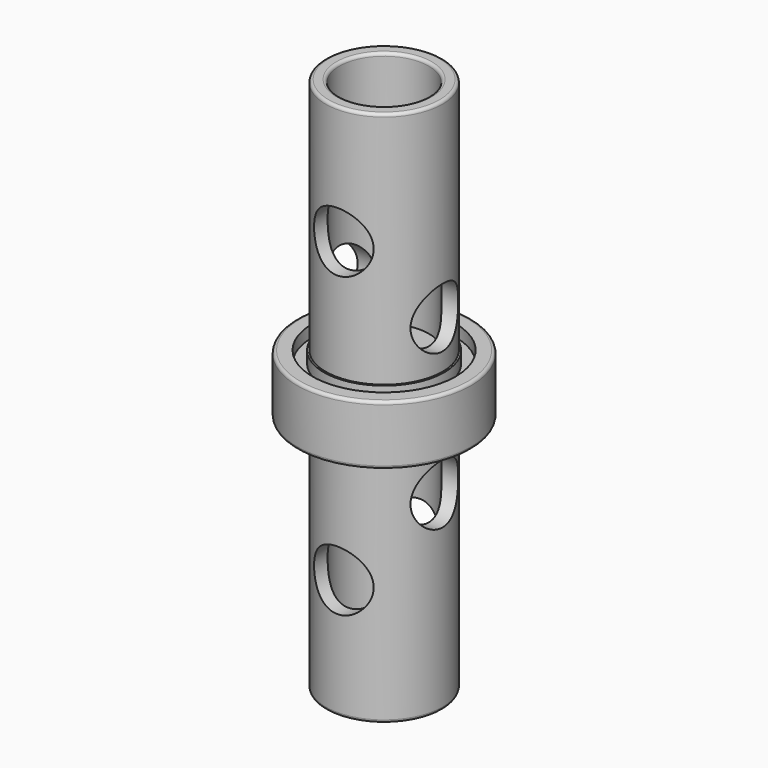
from build123d import *

# Parameters (mm, degrees)
F0_R      = 9.271
F1_DEPTH  = 6.35
F2_R      = 6.223
F2_R_2    = 4.7625
F3_DEPTH  = 25.4
F4_R      = 6.223
F4_R_2    = 4.7625
F5_DEPTH  = 25.4
F6_R      = 3.175
F7_DEPTH  = 12.7
F8_R      = 3.175
F9_DEPTH  = 12.7
F10_R     = 7.874
F10_R_2   = 6.4135
F11_DEPTH = 1.27
F12_R     = 7.62
F12_R_2   = 6.4135
F13_DEPTH = 1.27
F14_R     = 0.3175


with BuildPart() as f1:
    # F0 (on Top) → F1 (new body)
    with BuildSketch(Plane.XY):
        Circle(F0_R)
    extrude(amount=F1_DEPTH)

    # F2 (on face) → F3 (join)
    with BuildSketch(Plane(origin=(0, 0, 0), x_dir=(1, 0, 0), z_dir=(0, 0, -1))):
        Circle(F2_R)
        Circle(F2_R_2, mode=Mode.SUBTRACT)
    extrude(amount=F3_DEPTH)

    # F4 (on face) → F5 (join)
    with BuildSketch(Plane.XY.offset(6.35)):
        Circle(F4_R)
        Circle(F4_R_2, mode=Mode.SUBTRACT)
    extrude(amount=F5_DEPTH)

    # F6 (on Right) → F7 (cut, symmetric)
    with BuildSketch(Plane.YZ):
        with Locations((0, -5.08)):
            Circle(F6_R)
        with Locations((0, 11.43)):
            Circle(F6_R)
    extrude(amount=F7_DEPTH, both=True, mode=Mode.SUBTRACT)

    # F8 (on Front) → F9 (cut, symmetric)
    with BuildSketch(Plane.XZ):
        with Locations((0, -12.7)):
            Circle(F8_R)
        with Locations((0, 19.05)):
            Circle(F8_R)
    extrude(amount=F9_DEPTH, both=True, mode=Mode.SUBTRACT)

    # F10 (on face) → F11 (cut)
    with BuildSketch(Plane(origin=(0, 0, 0), x_dir=(1, 0, 0), z_dir=(0, 0, -1))):
        Circle(F10_R)
        Circle(F10_R_2, mode=Mode.SUBTRACT)
    extrude(amount=-F11_DEPTH, mode=Mode.SUBTRACT)

    # F12 (on face) → F13 (cut)
    with BuildSketch(Plane.XY.offset(6.35)):
        Circle(F12_R)
        Circle(F12_R_2, mode=Mode.SUBTRACT)
    extrude(amount=-F13_DEPTH, mode=Mode.SUBTRACT)

    # F14
    f14_edges = [f1.edges().sort_by_distance(p)[0] for p in [
        (-9.271, 0, 6.35),
        (-6.223, 0, -25.4),
        (-9.271, 0, 0),
        (-6.223, 0, 31.75),
        (-4.7625, 0, 31.75),
        (-4.7625, 0, -25.4),
    ]]
    fillet(f14_edges, radius=F14_R)


solid = f1.part
